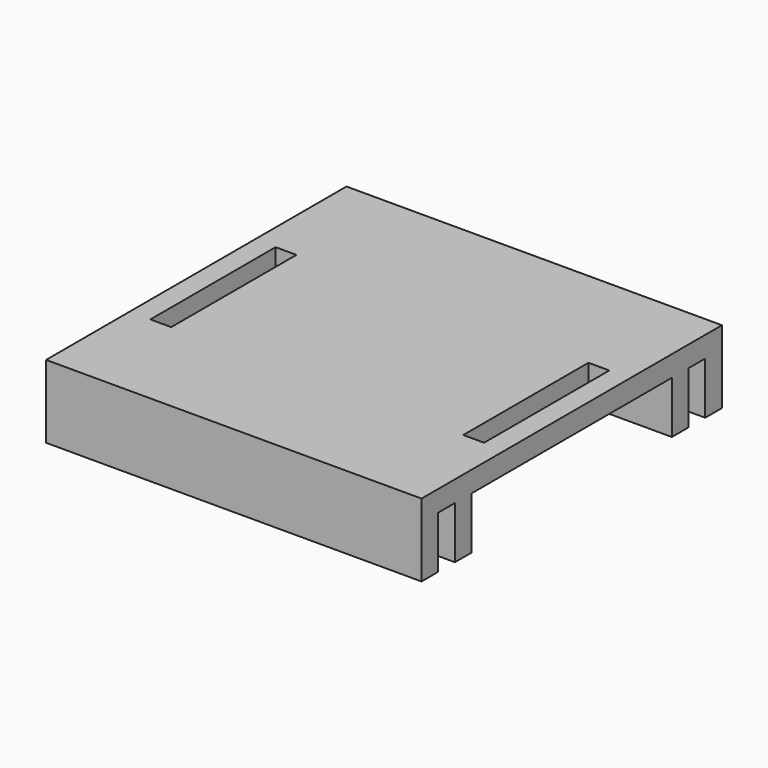
from build123d import *

# Parameters (mm, degrees)
F0_W     = 36
F0_H     = 36
F0_W_2   = 2
F0_H_2   = 15
F1_DEPTH = 2
F2_W     = 36
F2_H     = 2
F3_DEPTH = 5


with BuildPart() as f1:
    # F0 (on Top) → F1 (new body)
    with BuildSketch(Plane.XY):
        with Locations((1.428571, 2.255185)):
            Rectangle(F0_W, F0_H)
        with Locations((-13.571429, 1.755185)):
            Rectangle(F0_W_2, F0_H_2, mode=Mode.SUBTRACT)
        with Locations((16.428571, 1.755185)):
            Rectangle(F0_W_2, F0_H_2, mode=Mode.SUBTRACT)
    extrude(amount=F1_DEPTH)

    # F2 (on face) → F3 (join)
    with BuildSketch(Plane(origin=(0, 0, 0), x_dir=(1, 0, 0), z_dir=(0, 0, -1))):
        with Locations((1.428571, 14.744815)):
            Rectangle(F2_W, F2_H)
        with Locations((1.428571, 10.744815)):
            Rectangle(F2_W, F2_H)
        with Locations((1.428571, -19.255185)):
            Rectangle(F2_W, F2_H)
        with Locations((1.428571, -15.255185)):
            Rectangle(F2_W, F2_H)
    extrude(amount=F3_DEPTH)


solid = f1.part
